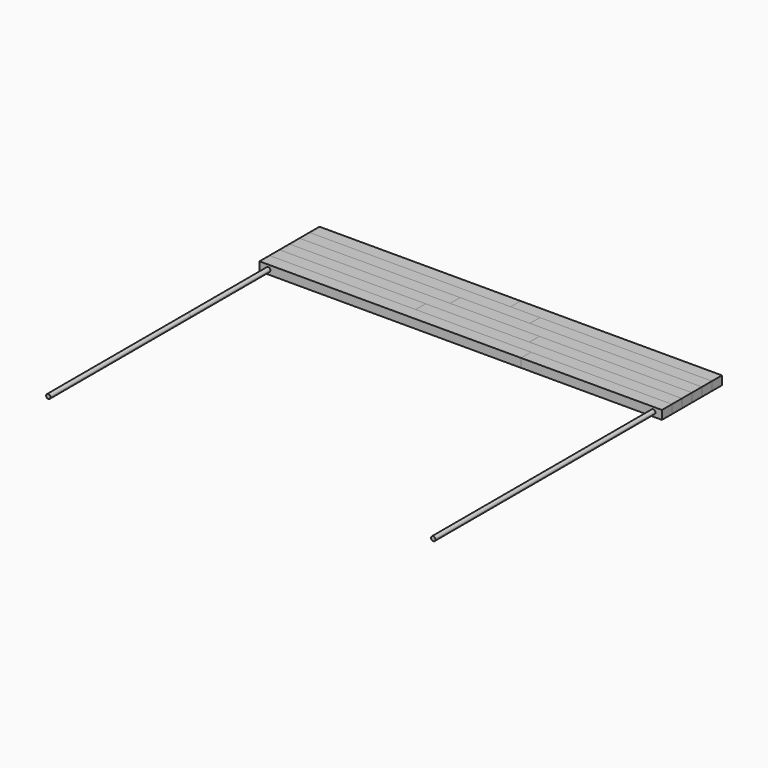
from build123d import *

# Parameters (mm, degrees)
F0_W      = 292.1
F0_H      = 18.142839
F1_DEPTH  = 12.7
F2_DEPTH  = 12.7
F0_W_2    = 233.226526
F3_DEPTH  = 12.7
F4_DEPTH  = 12.7
F0_W_3    = 249.677147
F5_DEPTH  = 12.7
F6_DEPTH  = 12.7
F7_R      = 3.175
F8_DEPTH  = 254
F10_DEPTH = 254
F11_DEPTH = 12.7
F0_W_4    = 221.395243
F12_DEPTH = 12.7
F0_W_5    = 212.106697
F13_DEPTH = 12.7
F14_DEPTH = 12.7
F15_DEPTH = 12.7
F0_W_6    = 204.547824
F16_DEPTH = 12.7


with BuildPart() as f1:
    # F0 (on Top) → F1 (new body)
    with BuildSketch(Plane.XY):
        with Locations((-146.05, 244.928581)):
            Rectangle(F0_W, F0_H)
    extrude(amount=F1_DEPTH)


with BuildPart() as f2:
    # F0 (on Top) → F2 (new body)
    with BuildSketch(Plane.XY):
        Polygon((42.422853, 235.857161), (0, 235.857161), (-292.1, 235.857161), (-292.1, 217.714322), (-58.873474, 217.714322), (42.422853, 217.714322), align=None)
    extrude(amount=F2_DEPTH)


with BuildPart() as f3:
    # F0 (on Top) → F3 (new body)
    with BuildSketch(Plane.XY):
        with Locations((-175.486737, 208.642902)):
            Rectangle(F0_W_2, F0_H)
    extrude(amount=F3_DEPTH)


with BuildPart() as f4:
    # F0 (on Top) → F4 (new body)
    with BuildSketch(Plane.XY):
        Polygon((292.1, 235.857161), (292.1, 254), (0, 254), (0, 235.857161), (42.422853, 235.857161), align=None)
    extrude(amount=F4_DEPTH)


with BuildPart() as f5:
    # F0 (on Top) → F5 (new body)
    with BuildSketch(Plane.XY):
        with Locations((167.261426, 226.785741)):
            Rectangle(F0_W_3, F0_H)
    extrude(amount=F5_DEPTH)


with BuildPart() as f6:
    # F0 (on Top) → F6 (new body)
    with BuildSketch(Plane.XY):
        Polygon((292.1, 199.571483), (292.1, 217.714322), (42.422853, 217.714322), (-58.873474, 217.714322), (-58.873474, 199.571483), (70.704757, 199.571483), align=None)
    extrude(amount=F6_DEPTH)


with BuildPart() as f8:
    # F7 (on Front) → F8 (new body, symmetric)
    with BuildSketch(Plane.XZ):
        with Locations((-279.4, 6.341596)):
            Circle(F7_R)
        with Locations((279.400003, 6.341596)):
            Circle(F7_R)
    extrude(amount=F8_DEPTH, both=True)


with BuildPart() as f3_1:
    add(f3.part)

    # F9: cut F8
    add(f8.part, mode=Mode.SUBTRACT)


with BuildPart() as f2_1:
    add(f2.part)

    # F9: cut F8
    add(f8.part, mode=Mode.SUBTRACT)


with BuildPart() as f1_1:
    add(f1.part)

    # F9: cut F8
    add(f8.part, mode=Mode.SUBTRACT)


with BuildPart() as f6_1:
    add(f6.part)

    # F9: cut F8
    add(f8.part, mode=Mode.SUBTRACT)


with BuildPart() as f5_1:
    add(f5.part)

    # F9: cut F8
    add(f8.part, mode=Mode.SUBTRACT)


with BuildPart() as f4_1:
    add(f4.part)

    # F9: cut F8
    add(f8.part, mode=Mode.SUBTRACT)


with BuildPart() as f10:
    # F7 (on Front) → F10 (new body, symmetric)
    with BuildSketch(Plane.XZ):
        with Locations((-279.4, 6.341596)):
            Circle(F7_R)
        with Locations((279.400003, 6.341596)):
            Circle(F7_R)
    extrude(amount=F10_DEPTH, both=True)


with BuildPart() as f11:
    # F0 (on Top) → F11 (new body)
    with BuildSketch(Plane.XY):
        Polygon((70.704757, 181.428644), (70.704757, 199.571483), (-58.873474, 199.571483), (-292.1, 199.571483), (-292.1, 181.428644), (-79.993303, 181.428644), align=None)
    extrude(amount=F11_DEPTH)


with BuildPart() as f12:
    # F0 (on Top) → F12 (new body)
    with BuildSketch(Plane.XY):
        with Locations((181.402378, 190.500064)):
            Rectangle(F0_W_4, F0_H)
    extrude(amount=F12_DEPTH)


with BuildPart() as f13:
    # F0 (on Top) → F13 (new body)
    with BuildSketch(Plane.XY):
        with Locations((-186.046651, 172.357224)):
            Rectangle(F0_W_5, F0_H)
    extrude(amount=F13_DEPTH)


with BuildPart() as f14:
    # F0 (on Top) → F14 (new body)
    with BuildSketch(Plane.XY):
        Polygon((292.1, 163.285805), (292.1, 181.428644), (70.704757, 181.428644), (-79.993303, 181.428644), (-79.993303, 163.285805), (87.552176, 163.285805), align=None)
    extrude(amount=F14_DEPTH)


with BuildPart() as f15:
    # F0 (on Top) → F15 (new body)
    with BuildSketch(Plane.XY):
        Polygon((87.552176, 145.142966), (87.552176, 163.285805), (-79.993303, 163.285805), (-292.1, 163.285805), (-292.1, 145.142966), (-93.800467, 145.142966), align=None)
    extrude(amount=F15_DEPTH)


with BuildPart() as f16:
    # F0 (on Top) → F16 (new body)
    with BuildSketch(Plane.XY):
        with Locations((189.826088, 154.214385)):
            Rectangle(F0_W_6, F0_H)
    extrude(amount=F16_DEPTH)


solid = Compound([f3_1.part, f2_1.part, f1_1.part, f6_1.part, f5_1.part, f4_1.part, f10.part, f11.part, f12.part, f13.part, f14.part, f15.part, f16.part])
